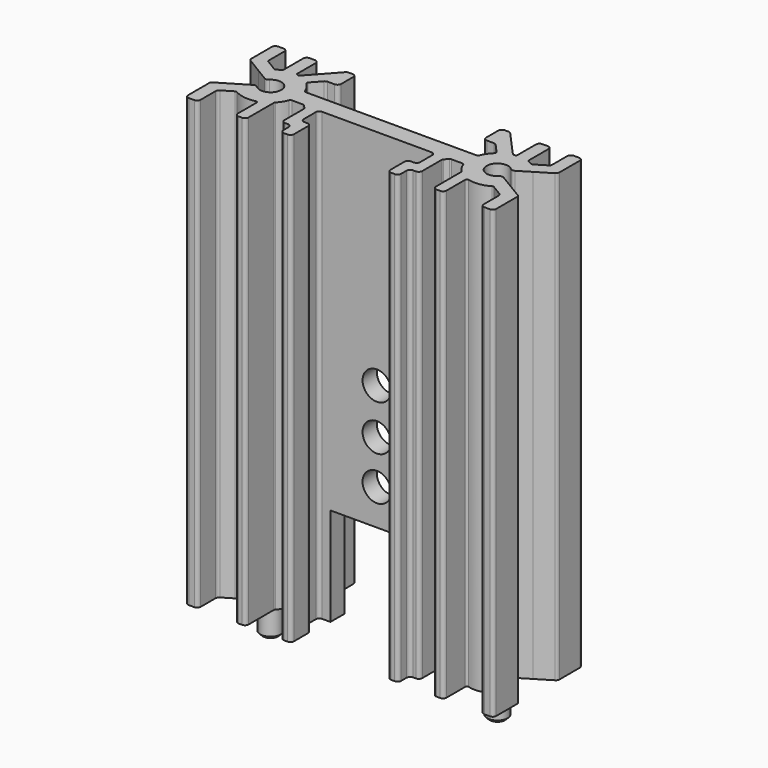
from build123d import *

# Parameters (mm, degrees)
F1_DEPTH      = 50
F2_R          = 1.15
F3_DEPTH      = 4
F3_DEPTH_BACK = 8
F4_W          = 10.4
F4_H          = 22
F4_R          = 1.6
F5_DEPTH      = 7.247634
F6_SIZE       = 0.3


with BuildPart() as f1:
    # F0 (on Top) → F1 (new body)
    with BuildSketch(Plane.XY):
        with BuildLine():
            ThreePointArc((-11.849001, 16.370871), (-9.814634, 15.502942), (-11.85685, 14.653645))
            ThreePointArc((-11.85685, 14.653645), (-12.090488, 14.765935), (-12.343909, 14.711403))
            Line((-12.343909, 14.711403), (-13.716562, 13.884985))
            Line((-13.716562, 13.884985), (-15.46778, 12.830648))
            ThreePointArc((-15.46778, 12.830648), (-15.538736, 12.757713), (-15.564622, 12.659305))
            Line((-15.564622, 12.659305), (-15.564622, 9.658427))
            ThreePointArc((-15.564622, 9.658427), (-15.447464, 9.375584), (-15.164622, 9.258427))
            Line((-15.164622, 9.258427), (-14.564622, 9.258427))
            ThreePointArc((-14.564622, 9.258427), (-14.281779, 9.375584), (-14.164622, 9.658427))
            Line((-14.164622, 9.658427), (-14.164622, 11.742315))
            ThreePointArc((-14.164622, 11.742315), (-14.112851, 11.939131), (-13.970939, 12.085001))
            Line((-13.970939, 12.085001), (-12.808188, 12.785045))
            ThreePointArc((-12.808188, 12.785045), (-12.706369, 12.813698), (-12.604174, 12.786411))
            ThreePointArc((-12.604174, 12.786411), (-11.459624, 12.387847), (-10.249289, 12.450599))
            ThreePointArc((-10.249289, 12.450599), (-10.077668, 12.414241), (-10.000729, 12.256583))
            Line((-10.000729, 12.256583), (-10.000729, 9.658427))
            ThreePointArc((-10.000729, 9.658427), (-9.883572, 9.375584), (-9.600729, 9.258427))
            Line((-9.600729, 9.258427), (-9.200729, 9.258427))
            ThreePointArc((-9.200729, 9.258427), (-8.917886, 9.375584), (-8.800729, 9.658427))
            Line((-8.800729, 9.658427), (-8.800729, 13.18248))
            ThreePointArc((-8.800729, 13.18248), (-8.786207, 13.257299), (-8.74475, 13.321253))
            ThreePointArc((-8.74475, 13.321253), (-8.345022, 13.832335), (-8.058404, 14.414433))
            ThreePointArc((-8.058404, 14.414433), (-7.98511, 14.509158), (-7.870835, 14.54502))
            Line((-7.870835, 14.54502), (-6.618769, 14.54502))
            ThreePointArc((-6.618769, 14.54502), (-6.541698, 14.529574), (-6.476532, 14.485621))
            Line((-6.476532, 14.485621), (-6.093073, 14.097702))
            ThreePointArc((-6.093073, 14.097702), (-6.050313, 14.033103), (-6.03531, 13.957101))
            Line((-6.03531, 13.957101), (-6.03531, 11.218103))
            ThreePointArc((-6.03531, 11.218103), (-5.918152, 10.935261), (-5.63531, 10.818103))
            Line((-5.63531, 10.818103), (-5.314622, 10.818103))
            ThreePointArc((-5.314622, 10.818103), (-5.031779, 10.700946), (-4.914622, 10.418103))
            Line((-4.914622, 10.418103), (-4.914622, 9.658427))
            ThreePointArc((-4.914622, 9.658427), (-4.797464, 9.375584), (-4.514622, 9.258427))
            Line((-4.514622, 9.258427), (-4.114622, 9.258427))
            ThreePointArc((-4.114622, 9.258427), (-3.831779, 9.375584), (-3.714622, 9.658427))
            Line((-3.714622, 9.658427), (-3.714622, 11.618103))
            ThreePointArc((-3.714622, 11.618103), (-3.831779, 11.900946), (-4.114622, 12.018103))
            Line((-4.114622, 12.018103), (-4.43531, 12.018103))
            ThreePointArc((-4.43531, 12.018103), (-4.718152, 12.135261), (-4.83531, 12.418103))
            Line((-4.83531, 12.418103), (-4.83531, 14.105061))
            ThreePointArc((-4.83531, 14.105061), (-4.718152, 14.387903), (-4.43531, 14.505061))
            Line((-4.43531, 14.505061), (1.685378, 14.505061))
            Line((1.685378, 14.505061), (7.806067, 14.505061))
            ThreePointArc((7.806067, 14.505061), (8.088909, 14.387903), (8.206067, 14.105061))
            Line((8.206067, 14.105061), (8.206067, 12.418103))
            ThreePointArc((8.206067, 12.418103), (8.088909, 12.135261), (7.806067, 12.018103))
            Line((7.806067, 12.018103), (7.485378, 12.018103))
            ThreePointArc((7.485378, 12.018103), (7.202536, 11.900946), (7.085378, 11.618103))
            Line((7.085378, 11.618103), (7.085378, 9.658427))
            ThreePointArc((7.085378, 9.658427), (7.202536, 9.375584), (7.485378, 9.258427))
            Line((7.485378, 9.258427), (7.885378, 9.258427))
            ThreePointArc((7.885378, 9.258427), (8.168221, 9.375584), (8.285378, 9.658427))
            Line((8.285378, 9.658427), (8.285378, 10.418103))
            ThreePointArc((8.285378, 10.418103), (8.402536, 10.700946), (8.685378, 10.818103))
            Line((8.685378, 10.818103), (9.006067, 10.818103))
            ThreePointArc((9.006067, 10.818103), (9.288909, 10.935261), (9.406067, 11.218103))
            Line((9.406067, 11.218103), (9.406067, 13.957101))
            ThreePointArc((9.406067, 13.957101), (9.42107, 14.033103), (9.46383, 14.097702))
            Line((9.46383, 14.097702), (9.847289, 14.485621))
            ThreePointArc((9.847289, 14.485621), (9.912455, 14.529574), (9.989525, 14.54502))
            Line((9.989525, 14.54502), (11.241592, 14.54502))
            ThreePointArc((11.241592, 14.54502), (11.355867, 14.509158), (11.429161, 14.414433))
            ThreePointArc((11.429161, 14.414433), (11.715779, 13.832335), (12.115507, 13.321253))
            ThreePointArc((12.115507, 13.321253), (12.156964, 13.257299), (12.171486, 13.18248))
            Line((12.171486, 13.18248), (12.171486, 9.658427))
            ThreePointArc((12.171486, 9.658427), (12.288643, 9.375584), (12.571486, 9.258427))
            Line((12.571486, 9.258427), (12.971486, 9.258427))
            ThreePointArc((12.971486, 9.258427), (13.254329, 9.375584), (13.371486, 9.658427))
            Line((13.371486, 9.658427), (13.371486, 12.256583))
            ThreePointArc((13.371486, 12.256583), (13.448425, 12.414241), (13.620045, 12.450599))
            ThreePointArc((13.620045, 12.450599), (14.830381, 12.387847), (15.974931, 12.786411))
            ThreePointArc((15.974931, 12.786411), (16.077125, 12.813698), (16.178945, 12.785045))
            Line((16.178945, 12.785045), (17.341695, 12.085001))
            ThreePointArc((17.341695, 12.085001), (17.483607, 11.939131), (17.535378, 11.742315))
            Line((17.535378, 11.742315), (17.535378, 9.658427))
            ThreePointArc((17.535378, 9.658427), (17.652536, 9.375584), (17.935378, 9.258427))
            Line((17.935378, 9.258427), (18.535378, 9.258427))
            ThreePointArc((18.535378, 9.258427), (18.818221, 9.375584), (18.935378, 9.658427))
            Line((18.935378, 9.658427), (18.935378, 12.659305))
            ThreePointArc((18.935378, 12.659305), (18.909493, 12.757713), (18.838537, 12.830648))
            Line((18.838537, 12.830648), (17.087319, 13.884985))
            Line((17.087319, 13.884985), (15.714666, 14.711403))
            ThreePointArc((15.714666, 14.711403), (15.461245, 14.765935), (15.227607, 14.653645))
            ThreePointArc((15.227607, 14.653645), (13.185391, 15.502942), (15.219758, 16.370871))
            ThreePointArc((15.219758, 16.370871), (15.453331, 16.260841), (15.705467, 16.316432))
            Line((15.705467, 16.316432), (17.07692, 17.149051))
            Line((17.07692, 17.149051), (18.742961, 18.160517))
            ThreePointArc((18.742961, 18.160517), (18.883971, 18.306265), (18.935378, 18.502437))
            Line((18.935378, 18.502437), (18.935378, 21.358427))
            ThreePointArc((18.935378, 21.358427), (18.818221, 21.641269), (18.535378, 21.758427))
            Line((18.535378, 21.758427), (17.935378, 21.758427))
            ThreePointArc((17.935378, 21.758427), (17.652536, 21.641269), (17.535378, 21.358427))
            Line((17.535378, 21.358427), (17.535378, 19.173671))
            ThreePointArc((17.535378, 19.173671), (17.509674, 19.075585), (17.43917, 19.002711))
            Line((17.43917, 19.002711), (16.174693, 18.235038))
            ThreePointArc((16.174693, 18.235038), (16.072779, 18.206007), (15.970338, 18.233119))
            ThreePointArc((15.970338, 18.233119), (15.761682, 18.34424), (15.545286, 18.43941))
            ThreePointArc((15.545286, 18.43941), (15.453474, 18.512947), (15.418881, 18.625377))
            Line((15.418881, 18.625377), (15.418881, 21.358427))
            ThreePointArc((15.418881, 21.358427), (15.301723, 21.641269), (15.018881, 21.758427))
            Line((15.018881, 21.758427), (14.418881, 21.758427))
            ThreePointArc((14.418881, 21.758427), (14.136038, 21.641269), (14.018881, 21.358427))
            Line((14.018881, 21.358427), (14.018881, 18.812362))
            ThreePointArc((14.018881, 18.812362), (13.971785, 18.683443), (13.85268, 18.615238))
            ThreePointArc((13.85268, 18.615238), (13.816733, 18.60886), (13.780863, 18.602067))
            ThreePointArc((13.780863, 18.602067), (13.67914, 18.608658), (13.593878, 18.664528))
            Line((13.593878, 18.664528), (10.927286, 21.626079))
            ThreePointArc((10.927286, 21.626079), (10.792723, 21.723845), (10.630028, 21.758427))
            Line((10.630028, 21.758427), (10.20812, 21.758427))
            ThreePointArc((10.20812, 21.758427), (9.925277, 21.641269), (9.80812, 21.358427))
            Line((9.80812, 21.358427), (9.80812, 19.658427))
            ThreePointArc((9.80812, 19.658427), (9.925277, 19.375584), (10.20812, 19.258427))
            Line((10.20812, 19.258427), (10.997152, 19.258427))
            ThreePointArc((10.997152, 19.258427), (11.159847, 19.223845), (11.29441, 19.126079))
            Line((11.29441, 19.126079), (12.234821, 18.081648))
            ThreePointArc((12.234821, 18.081648), (12.286024, 17.93963), (12.223369, 17.802279))
            ThreePointArc((12.223369, 17.802279), (11.766134, 17.262167), (11.440912, 16.633666))
            ThreePointArc((11.440912, 16.633666), (11.367493, 16.54032), (11.254089, 16.505061))
            Line((11.254089, 16.505061), (1.685378, 16.505061))
            Line((1.685378, 16.505061), (-7.883332, 16.505061))
            ThreePointArc((-7.883332, 16.505061), (-7.996736, 16.54032), (-8.070155, 16.633666))
            ThreePointArc((-8.070155, 16.633666), (-8.395377, 17.262167), (-8.852612, 17.802279))
            ThreePointArc((-8.852612, 17.802279), (-8.915267, 17.93963), (-8.864064, 18.081648))
            Line((-8.864064, 18.081648), (-7.923654, 19.126079))
            ThreePointArc((-7.923654, 19.126079), (-7.78909, 19.223845), (-7.626396, 19.258427))
            Line((-7.626396, 19.258427), (-6.837363, 19.258427))
            ThreePointArc((-6.837363, 19.258427), (-6.55452, 19.375584), (-6.437363, 19.658427))
            Line((-6.437363, 19.658427), (-6.437363, 21.358427))
            ThreePointArc((-6.437363, 21.358427), (-6.55452, 21.641269), (-6.837363, 21.758427))
            Line((-6.837363, 21.758427), (-7.259271, 21.758427))
            ThreePointArc((-7.259271, 21.758427), (-7.421966, 21.723845), (-7.556529, 21.626079))
            Line((-7.556529, 21.626079), (-10.223122, 18.664528))
            ThreePointArc((-10.223122, 18.664528), (-10.308383, 18.608658), (-10.410106, 18.602067))
            ThreePointArc((-10.410106, 18.602067), (-10.445976, 18.60886), (-10.481923, 18.615238))
            ThreePointArc((-10.481923, 18.615238), (-10.601029, 18.683443), (-10.648124, 18.812362))
            Line((-10.648124, 18.812362), (-10.648124, 21.358427))
            ThreePointArc((-10.648124, 21.358427), (-10.765281, 21.641269), (-11.048124, 21.758427))
            Line((-11.048124, 21.758427), (-11.648124, 21.758427))
            ThreePointArc((-11.648124, 21.758427), (-11.930966, 21.641269), (-12.048124, 21.358427))
            Line((-12.048124, 21.358427), (-12.048124, 18.625377))
            ThreePointArc((-12.048124, 18.625377), (-12.082717, 18.512947), (-12.174529, 18.43941))
            ThreePointArc((-12.174529, 18.43941), (-12.390926, 18.34424), (-12.599581, 18.233119))
            ThreePointArc((-12.599581, 18.233119), (-12.702022, 18.206007), (-12.803936, 18.235038))
            Line((-12.803936, 18.235038), (-14.068413, 19.002711))
            ThreePointArc((-14.068413, 19.002711), (-14.138918, 19.075585), (-14.164622, 19.173671))
            Line((-14.164622, 19.173671), (-14.164622, 21.358427))
            ThreePointArc((-14.164622, 21.358427), (-14.281779, 21.641269), (-14.564622, 21.758427))
            Line((-14.564622, 21.758427), (-15.164622, 21.758427))
            ThreePointArc((-15.164622, 21.758427), (-15.447464, 21.641269), (-15.564622, 21.358427))
            Line((-15.564622, 21.358427), (-15.564622, 18.502437))
            ThreePointArc((-15.564622, 18.502437), (-15.513214, 18.306265), (-15.372204, 18.160517))
            Line((-15.372204, 18.160517), (-13.706163, 17.149051))
            Line((-13.706163, 17.149051), (-12.33471, 16.316432))
            ThreePointArc((-12.33471, 16.316432), (-12.082574, 16.260841), (-11.849001, 16.370871))
        make_face()
    extrude(amount=F1_DEPTH)

    # F4 (on face) → F5 (cut, through all)
    with BuildSketch(Plane(origin=(0, 16.505061, 0), x_dir=(-1, 0, 0), z_dir=(0, 1, 0))):
        with Locations((-1.685378, 0)):
            Rectangle(F4_W, F4_H)
        with Locations((-1.685378, 15)):
            Circle(F4_R)
        with Locations((-1.685378, 19.9)):
            Circle(F4_R)
        with Locations((-1.685378, 25)):
            Circle(F4_R)
    extrude(amount=-F5_DEPTH, mode=Mode.SUBTRACT)


with BuildPart() as f3:
    # F2 (on face) → F3 (new body, two sides)
    with BuildSketch(Plane(origin=(0, 0, 0), x_dir=(1, 0, 0), z_dir=(0, 0, -1))) as f3_sk:
        with Locations((-11.014622, -15.508427)):
            Circle(F2_R)
        with Locations((14.385378, -15.508427)):
            Circle(F2_R)
    extrude(amount=F3_DEPTH)
    extrude(f3_sk.sketch, amount=-F3_DEPTH_BACK)

    # F6
    f6_edges = [f3.edges().sort_by_distance(p)[0] for p in [
        (13.235378, 15.508427, -4),
        (-12.164622, 15.508427, -4),
    ]]
    chamfer(f6_edges, length=F6_SIZE)


solid = Compound([f1.part, f3.part])
